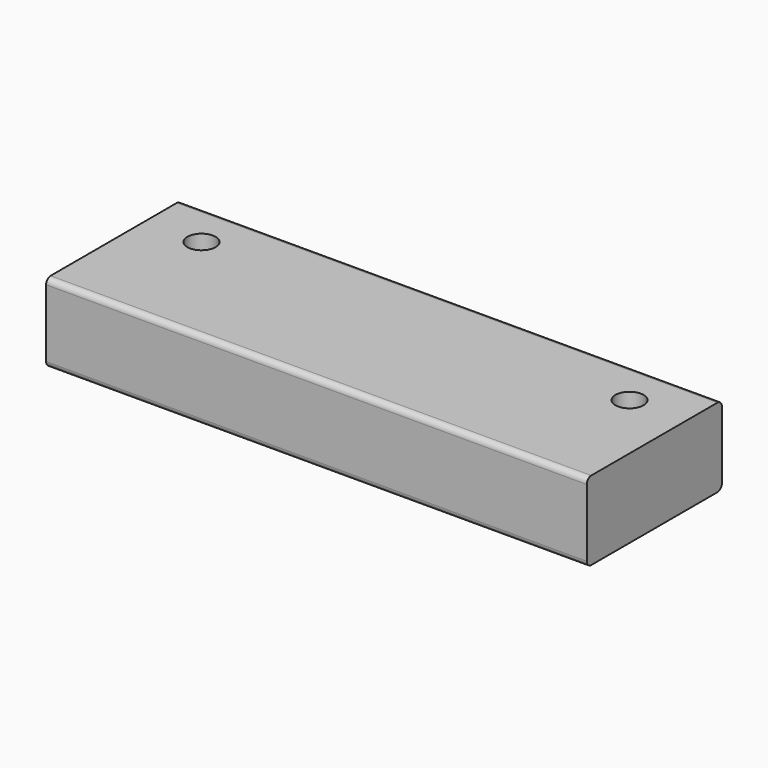
from build123d import *

# Parameters (mm, degrees)
F0_W     = 304.8
F0_H     = 95.25
F1_DEPTH = 44.45
F2_R     = 3.175
F3_R     = 7.9375
F4_DEPTH = 44.451


with BuildPart() as f1:
    # F0 (on Top) → F1 (new body)
    with BuildSketch(Plane.XY):
        with Locations((152.4, 47.625)):
            Rectangle(F0_W, F0_H)
    extrude(amount=F1_DEPTH)

    # F2
    f2_edges = [f1.edges().sort_by_distance(p)[0] for p in [
        (152.4, 95.25, 44.45),
        (152.4, 0, 44.45),
        (152.4, 0, 0),
        (152.4, 95.25, 0),
    ]]
    fillet(f2_edges, radius=F2_R)

    # F3 (on face) → F4 (cut, through all)
    with BuildSketch(Plane.XY.offset(44.45)):
        with Locations((31.75, 69.85)):
            Circle(F3_R)
        with Locations((273.05, 69.85)):
            Circle(F3_R)
    extrude(amount=-F4_DEPTH, mode=Mode.SUBTRACT)


solid = f1.part
